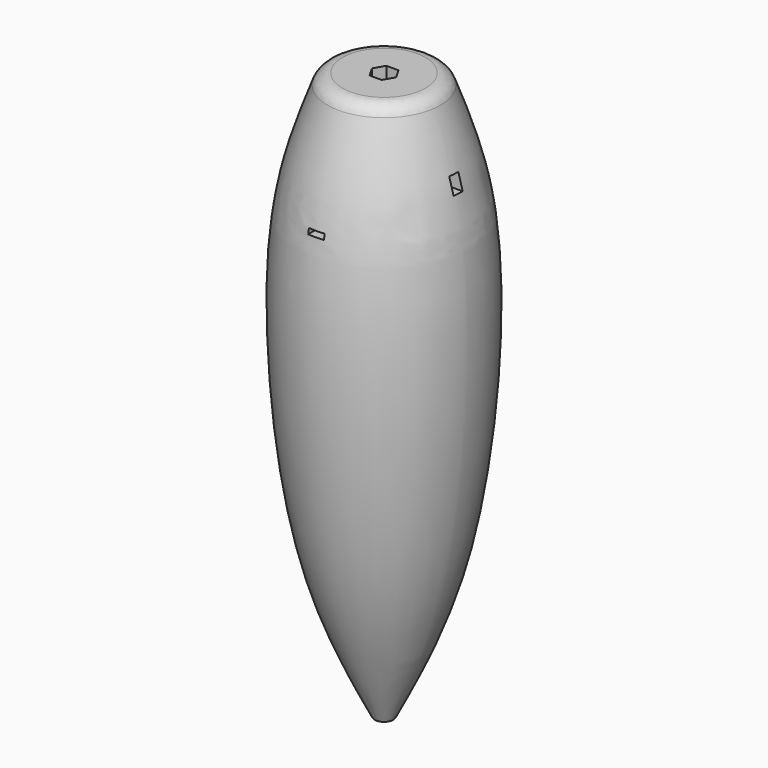
from build123d import *

# Parameters (mm, degrees)
F3_DEPTH = 5
F5_DEPTH = 15
F6_W     = 2
F6_H     = 3
F7_DEPTH = 20.5
F8_W     = 3
F8_H     = 1
F9_DEPTH = 17.5068136575
F10_R    = 0.3
F11_R    = 0.1
F12_R    = 0.1
F13_R    = 3


with BuildPart() as f2:
    # F1 (on Front) → F2 (revolve)
    with BuildSketch(Plane.XZ):
        with BuildLine():
            Line((-2, 62), (-10, 62))
            add(Edge.make_bspline(
                [(-10, 62), (-11.8174263966, 57.1809415466), (-15.8594861297, 46.4373198499), (-18.6273544316, 24.5459471202), (-15.0414654734, -19.3469968059), (-5.4834802074, -38.7438846901), (-1.25, -47.0509425635)],
                knots=[0, 0, 0, 0, 0.1886807773, 0.4119593541, 0.7294893705, 0.9757699691, 0.9757699691, 0.9757699691, 0.9757699691], degree=3))
            Line((-1.25, -47.0509425635), (-1.25, -43.0509425635))
            Line((-1.25, -43.0509425635), (-1.75, -43.0509425635))
            Line((-1.75, -43.0509425635), (-1.75, -17))
            Line((-1.75, -17), (0, -17))
            Line((0, -17), (0, 47))
            Line((0, 47), (0, 50))
            Line((0, 50), (-2, 50))
            Line((-2, 50), (-2, 62))
        make_face()
    revolve(axis=Axis((0, 0, 54.5), (0, 0, 1)))

    # F0 (on Front) → F3 (cut, symmetric)
    with BuildSketch(Plane.XZ):
        Polygon((-10.75, -17), (10.75, -17), (10.75, 47), (9, 47), (9, 53), (-9, 53), (-9, 47), (-10.75, 47), align=None)
    extrude(amount=F3_DEPTH, both=True, mode=Mode.SUBTRACT)

    # F4 (on face) → F5 (cut)
    with BuildSketch(Plane.XY.offset(62)):
        Polygon((1.1547005384, -2), (2.3094010768, 0), (1.1547005384, 2), (-1.1547005384, 2), (-2.3094010768, 0), (-1.1547005384, -2), align=None)
    extrude(amount=-F5_DEPTH, mode=Mode.SUBTRACT)

    # F6 (on Right) → F7 (cut, symmetric)
    with BuildSketch(Plane.YZ):
        with Locations((-1, 48.5)):
            Rectangle(F6_W, F6_H)
    extrude(amount=F7_DEPTH, both=True, mode=Mode.SUBTRACT)

    # F8 (on Front) → F9 (cut, through all)
    with BuildSketch(Plane.XZ):
        with Locations((0, 41.5)):
            Rectangle(F8_W, F8_H)
    extrude(amount=F9_DEPTH, mode=Mode.SUBTRACT)

    # F10
    f10_edges = [f2.edges().sort_by_distance(p)[0] for p in [
        (1.25, 0, -47.050943),
    ]]
    fillet(f10_edges, radius=F10_R)

    # F11
    f11_edges = [f2.edges().sort_by_distance(p)[0] for p in [
        (1.25, 0, -43.050943),
    ]]
    fillet(f11_edges, radius=F11_R)

    # F12
    f12_edges = [f2.edges().sort_by_distance(p)[0] for p in [
        (1.75, 0, -43.050943),
    ]]
    fillet(f12_edges, radius=F12_R)

    # F13
    f13_edges = [f2.edges().sort_by_distance(p)[0] for p in [
        (10, 0, 62),
    ]]
    fillet(f13_edges, radius=F13_R)


solid = f2.part
